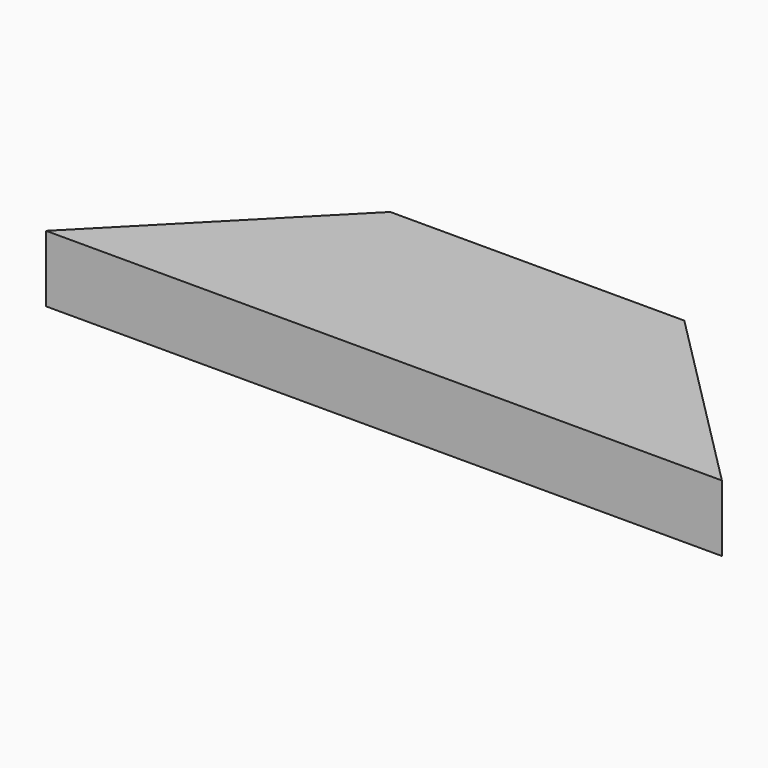
from build123d import *

# Parameters (mm, degrees)
F0_W     = 267.07992
F0_H     = 26.284477
F1_DEPTH = 76.2
F3_DEPTH = 50.8


with BuildPart() as f1:
    # F0 (on Front) → F1 (new body)
    with BuildSketch(Plane.XZ):
        with Locations((-133.53996, 13.142238)):
            Rectangle(F0_W, F0_H)
    extrude(amount=F1_DEPTH)

    # F2 (on face) → F3 (cut)
    with BuildSketch(Plane.XY.offset(26.284477)):
        Polygon((-192.028254, 0), (-267.07992, 0), (-267.07992, -76.2), align=None)
        Polygon((0, -76.2), (0, 0), (-75.817488, 0), align=None)
    extrude(amount=-F3_DEPTH, mode=Mode.SUBTRACT)


solid = f1.part
